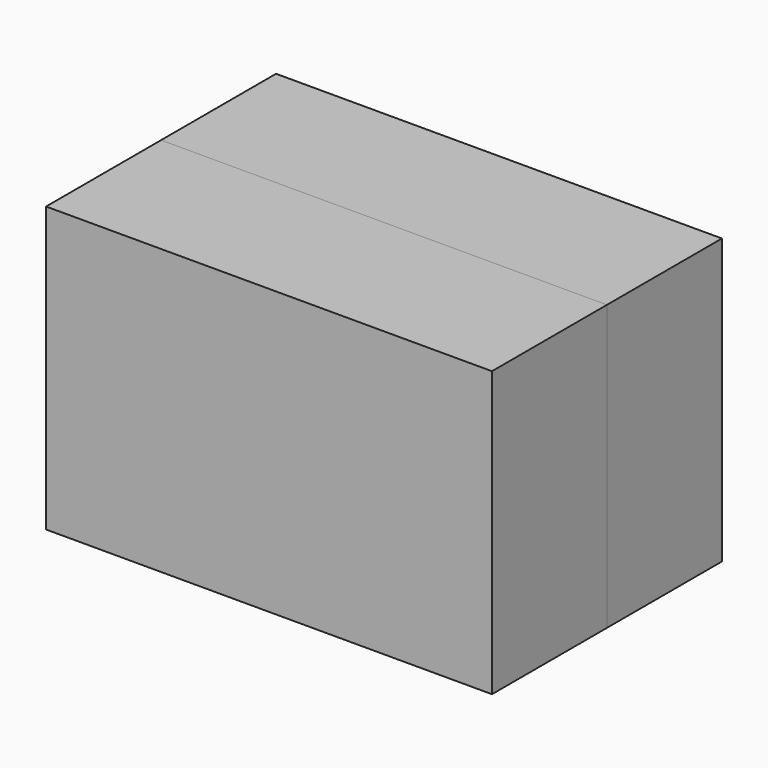
from build123d import *

# Parameters (mm, degrees)
F0_W     = 77.557534
F0_H     = 49.465844
F1_DEPTH = 25


with BuildPart() as f1:
    # F0 (on Front) → F1 (new body)
    with BuildSketch(Plane.XZ):
        with Locations((-72.282486, 11.782143)):
            Rectangle(F0_W, F0_H)
    extrude(amount=F1_DEPTH)


with BuildPart() as f2_1:
    # F2: instance of F1
    add(f1.part.mirror(Plane.XZ))


solid = Compound([f1.part, f2_1.part])
